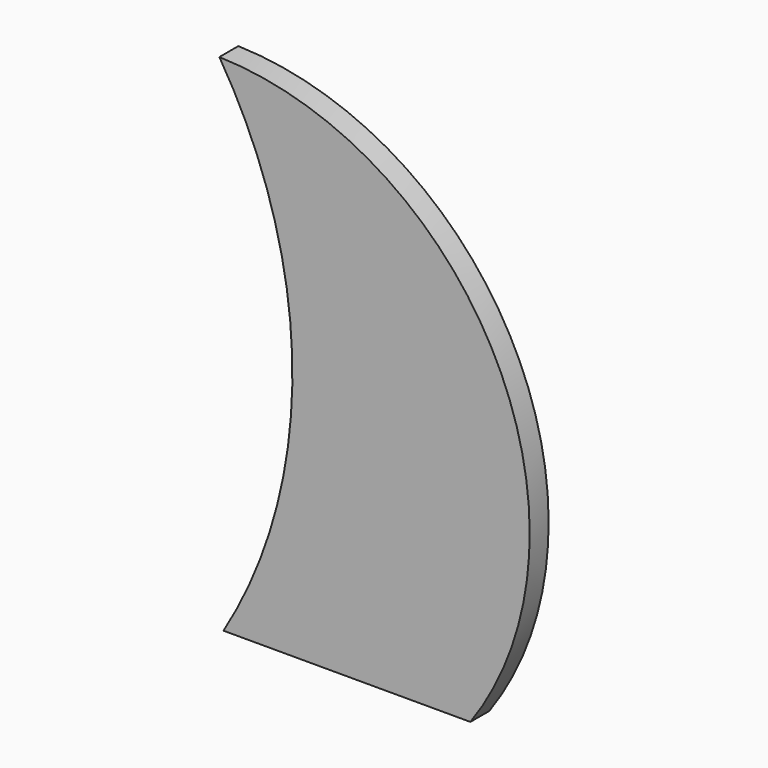
from build123d import *

# Parameters (mm, degrees)
F1_DEPTH = 3.302


with BuildPart() as f1:
    # F0 (on Front) → F1 (new body)
    with BuildSketch(Plane.XZ):
        with BuildLine():
            ThreePointArc((-20.290308, 34.968402), (-10.110584, -0.062821), (-19.714696, -35.256207))
            Line((-19.714696, -35.256207), (14.70532, -35.256207))
            ThreePointArc((14.70532, -35.256207), (18.309812, 10.372189), (-20.290308, 34.968402))
        make_face()
    extrude(amount=F1_DEPTH)


solid = f1.part
